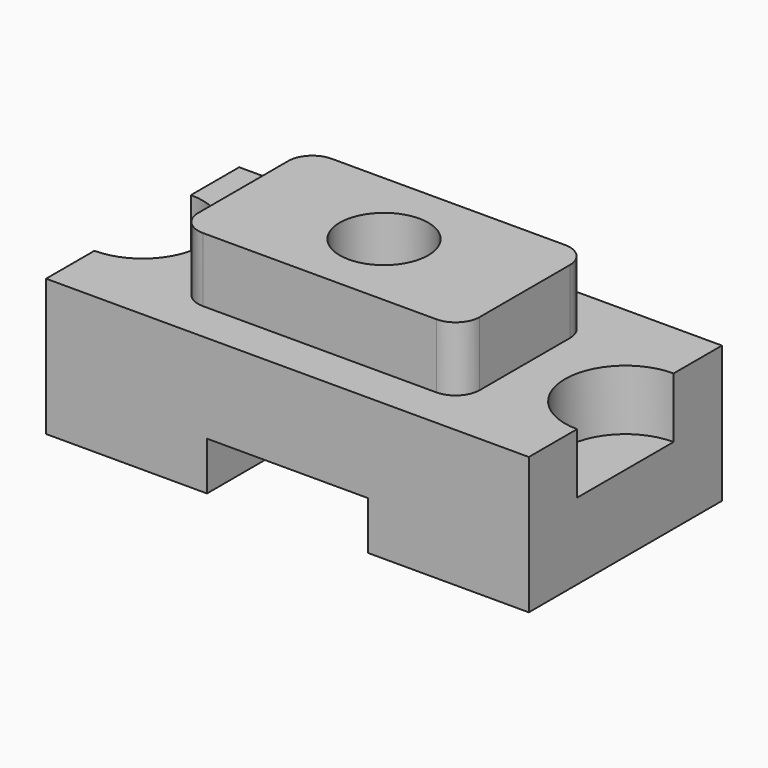
from build123d import *

# Parameters (mm, degrees)
F0_W     = 120
F0_H     = 60
F1_DEPTH = 34
F2_R     = 15
F3_DEPTH = 15
F5_DEPTH = 16
F6_R     = 11
F7_DEPTH = 38
F8_W     = 40
F8_H     = 12
F9_DEPTH = 60


with BuildPart() as f1:
    # F0 (on Top) → F1 (new body)
    with BuildSketch(Plane.XY):
        Rectangle(F0_W, F0_H)
    extrude(amount=F1_DEPTH)

    # F2 (on face) → F3 (cut)
    with BuildSketch(Plane.XY.offset(34)):
        with Locations((-60, 0)):
            Circle(F2_R)
        with Locations((60, 0)):
            Circle(F2_R)
    extrude(amount=-F3_DEPTH, mode=Mode.SUBTRACT)

    # F4 (on face) → F5 (join)
    with BuildSketch(Plane.XY.offset(34)):
        with BuildLine():
            ThreePointArc((-35, -14), (-33.242641, -18.242641), (-29, -20))
            Line((-29, -20), (29, -20))
            ThreePointArc((29, -20), (33.242641, -18.242641), (35, -14))
            Line((35, -14), (35, 14))
            ThreePointArc((35, 14), (33.242641, 18.242641), (29, 20))
            Line((29, 20), (-29, 20))
            ThreePointArc((-29, 20), (-33.242641, 18.242641), (-35, 14))
            Line((-35, 14), (-35, -14))
        make_face()
    extrude(amount=F5_DEPTH)

    # F6 (on face) → F7 (cut)
    with BuildSketch(Plane.XY.offset(50)):
        Circle(F6_R)
    extrude(amount=-F7_DEPTH, mode=Mode.SUBTRACT)

    # F8 (on face) → F9 (cut)
    with BuildSketch(Plane(origin=(0, 30, 0), x_dir=(-1, 0, 0), z_dir=(0, 1, 0))):
        with Locations((0, 6)):
            Rectangle(F8_W, F8_H)
    extrude(amount=-F9_DEPTH, mode=Mode.SUBTRACT)


solid = f1.part
